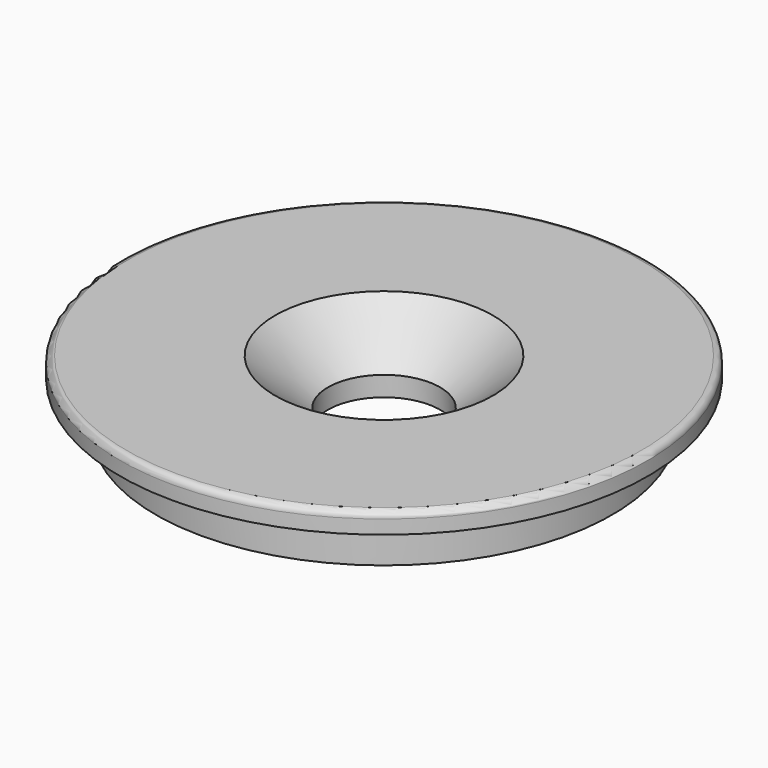
from build123d import *


with BuildPart() as f1:
    # F0 (on Right) → F1 (revolve)
    with BuildSketch(Plane.YZ):
        with BuildLine():
            Line((-17.3, 0), (-4.25, 0))
            Line((-4.25, 0), (-4.25, 1.5))
            Line((-4.25, 1.5), (-8.25, 5))
            Line((-8.25, 5), (-19.5, 5))
            ThreePointArc((-19.5, 5), (-19.853553, 4.853553), (-20, 4.5))
            Line((-20, 4.5), (-20, 3.45))
            Line((-20, 3.45), (-17.8, 3.45))
            ThreePointArc((-17.8, 3.45), (-17.446447, 3.303553), (-17.3, 2.95))
            Line((-17.3, 2.95), (-17.3, 0))
        make_face()
    revolve(axis=Axis((0, 0, 2.5), (0, 0, 1)))


solid = f1.part
